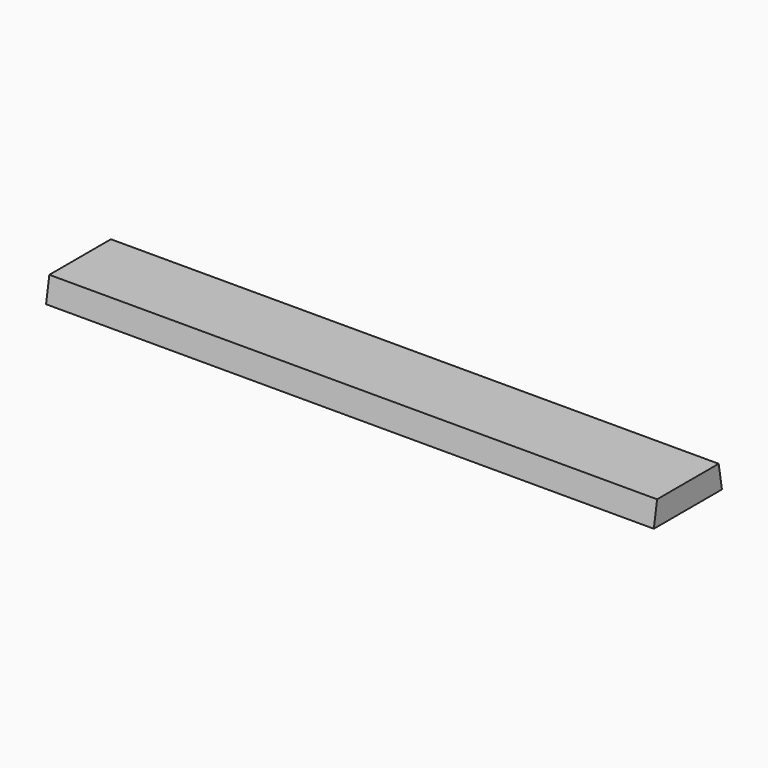
from build123d import *

# Parameters (mm, degrees)
F0_W     = 38
F0_H     = 12
F1_DEPTH = 300


with BuildPart() as f1:
    # F0 (on Right) → F1 (new body)
    with BuildSketch(Plane.YZ):
        with Locations((0, 1.333333)):
            Rectangle(F0_W, F0_H)
        Polygon((-19, -4.666667), (-19, 7.333333), (-21, -4.666667), align=None)
        Polygon((21, -4.666667), (19, 7.333333), (19, -4.666667), align=None)
    extrude(amount=F1_DEPTH)


solid = f1.part
